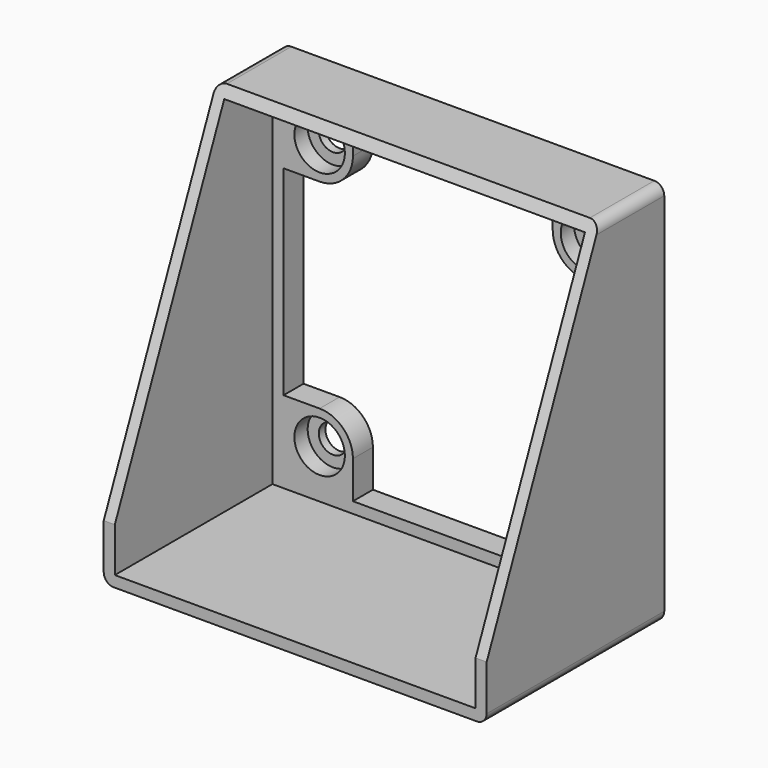
from build123d import *

# Parameters (mm, degrees)
SKETCH_W        = 69
SKETCH_H        = 69.5
SKETCH_R        = 2.55
PAD_DEPTH       = 4.5
SKETCH001_W     = 69
SKETCH001_H     = 69.5
SKETCH001_W_2   = 65
SKETCH001_H_2   = 65.5
PAD001_DEPTH    = 40
POCKET_DEPTH    = 69.001
SKETCH003_R     = 4.55
POCKET001_DEPTH = 3
FILLET_R        = 1.8


with BuildPart() as part:
    # Sketch → Pad (new body)
    with BuildSketch(Plane.XZ):
        Rectangle(SKETCH_W, SKETCH_H)
        with Locations((-24, 24)):
            Circle(SKETCH_R, mode=Mode.SUBTRACT)
        with Locations((24, 24)):
            Circle(SKETCH_R, mode=Mode.SUBTRACT)
        with Locations((-24, -24)):
            Circle(SKETCH_R, mode=Mode.SUBTRACT)
        with Locations((24, -24)):
            Circle(SKETCH_R, mode=Mode.SUBTRACT)
        with BuildLine():
            Line((-18, 30.75), (18, 30.75))
            Line((18, 30.75), (18, 24))
            ThreePointArc((18, 24), (19.757359, 19.757359), (24, 18))
            Line((24, 18), (30.5, 18))
            Line((30.5, 18), (30.5, -18))
            Line((23.999998, -18), (30.5, -18))
            ThreePointArc((23.999998, -18), (19.757359, -19.75736), (18, -24))
            Line((18, -30.75), (18, -24))
            Line((18, -30.75), (-18, -30.75))
            Line((-18, -24), (-18, -30.75))
            ThreePointArc((-18, -24), (-19.757359, -19.757359), (-24, -18))
            Line((-30.5, -18), (-24, -18))
            Line((-30.5, -18), (-30.5, 18))
            Line((-30.5, 18), (-24, 18))
            ThreePointArc((-24, 18), (-19.757359, 19.757359), (-18, 24))
            Line((-18, 30.75), (-18, 24))
        make_face(mode=Mode.SUBTRACT)
    extrude(amount=PAD_DEPTH)

    # Sketch001 → Pad001 (join)
    with BuildSketch(Plane.XZ):
        Rectangle(SKETCH001_W, SKETCH001_H)
        Rectangle(SKETCH001_W_2, SKETCH001_H_2, mode=Mode.SUBTRACT)
    extrude(amount=PAD001_DEPTH)

    # Sketch002 (on Face7 of Pad001) → Pocket (cut, through all)
    with BuildSketch(Plane(origin=(-34.5, 0, 0), x_dir=(0, 0, -1), z_dir=(-1, 0, 0))):
        Polygon((-34.75, 14.5), (24.75, 40), (-34.75, 40), align=None)
    extrude(amount=-POCKET_DEPTH, mode=Mode.SUBTRACT)

    # Sketch003 (on Face37 of Pocket) → Pocket001 (cut)
    with BuildSketch(Plane.XZ.offset(4.5)):
        with Locations((-24, 24)):
            Circle(SKETCH003_R)
        with Locations((24, 24)):
            Circle(SKETCH003_R)
        with Locations((-24, -24)):
            Circle(SKETCH003_R)
        with Locations((24, -24)):
            Circle(SKETCH003_R)
    extrude(amount=-POCKET001_DEPTH, mode=Mode.SUBTRACT)

    # Fillet
    fillet_edges = [part.edges().sort_by_distance(p)[0] for p in [
        (-34.5, -9.5, 34.75),
        (-34.5, -2.25, 34.75),
        (-34.5, -2.25, -34.75),
        (-34.5, -22.25, -34.75),
        (34.5, -22.25, -34.75),
        (34.5, -2.25, -34.75),
        (34.5, -9.5, 34.75),
        (34.5, -2.25, 34.75),
    ]]
    fillet(fillet_edges, radius=FILLET_R)


solid = part.part
